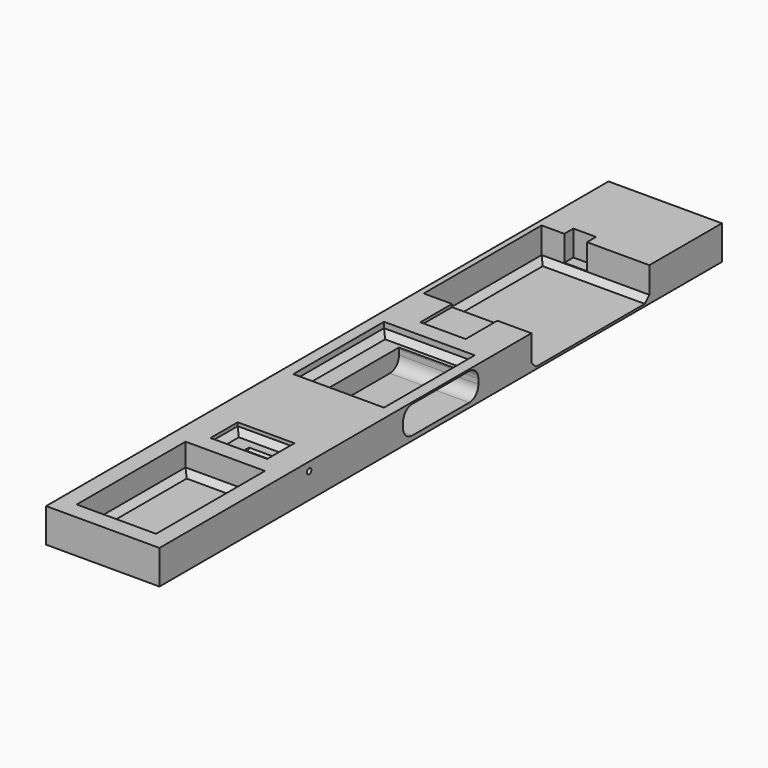
from build123d import *

# Parameters (mm, degrees)
BOX038_W          = 4
BOX038_H          = 4
BOX038_DEPTH      = 10
BOX037_W          = 3
BOX037_H          = 6
BOX037_DEPTH      = 10
BOX036_W          = 2
BOX036_H          = 2.5
BOX036_DEPTH      = 10
BOX027_W          = 8.65
BOX027_H          = 8.3
BOX027_DEPTH      = 2.45
FILLET016_R       = 1
BOX034_W          = 7
BOX034_H          = 12
BOX034_DEPTH      = 3
CHAMFER002_SIZE   = 0.5
BOX033_W          = 8
BOX033_H          = 10
BOX033_DEPTH      = 10
CHAMFER001_SIZE   = 0.5
BOX032_W          = 5
BOX032_H          = 3
BOX032_DEPTH      = 10
CHAMFER_SIZE      = 0.5
BOX024_W          = 8.65
BOX024_H          = 8.3
BOX024_DEPTH      = 2.45
FILLET015_R       = 1
CYLINDER028_R     = 0.25
CYLINDER028_DEPTH = 10
BOX026_W          = 10
BOX026_H          = 13
BOX026_DEPTH      = 3
BOX014_W          = 10
BOX014_H          = 62
BOX014_DEPTH      = 3
CHAMFER003_SIZE   = 0.5


with BuildPart() as cubo032:
    # Box038 → Box038 (new body)
    with BuildSketch(Plane(origin=(127.5, 40, 4.75), x_dir=(1, 0, 0), z_dir=(0, 0, 1))):
        with Locations((2, 2)):
            Rectangle(BOX038_W, BOX038_H)
    extrude(amount=BOX038_DEPTH)


with BuildPart() as cubo031:
    # Box037 → Box037 (new body)
    with BuildSketch(Plane(origin=(128, 41, 4.75), x_dir=(1, 0, 0), z_dir=(0, 0, 1))):
        with Locations((1.5, 3)):
            Rectangle(BOX037_W, BOX037_H)
    extrude(amount=BOX037_DEPTH)


with BuildPart() as cubo030:
    # Box036 → Box036 (new body)
    with BuildSketch(Plane(origin=(127, 55, 2.75), x_dir=(1, 0, 0), z_dir=(0, 0, 1))):
        with Locations((1, 1.25)):
            Rectangle(BOX036_W, BOX036_H)
    extrude(amount=BOX036_DEPTH)


with BuildPart() as usb_c002:
    # Box027 → Box027 (new body)
    with BuildSketch(Plane.XY):
        with Locations((4.325, 4.15)):
            Rectangle(BOX027_W, BOX027_H)
    extrude(amount=BOX027_DEPTH)

    # Fillet016
    fillet016_edges = [usb_c002.edges().sort_by_distance(p)[0] for p in [
        (4.325, 0, 0),
        (4.325, 0, 2.45),
        (4.325, 8.3, 0),
        (4.325, 8.3, 2.45),
    ]]
    fillet(fillet016_edges, radius=FILLET016_R)


with BuildPart() as usb_c002_1:
    # Fillet016 placement: moved
    add(usb_c002.part.moved(Location((127.5, 29.35, 2.4))))


with BuildPart() as chamfer002:
    # Box034 → Box034 (new body)
    with BuildSketch(Plane(origin=(126, 4, 2.5), x_dir=(1, 0, 0), z_dir=(0, 0, 1))):
        with Locations((3.5, 6)):
            Rectangle(BOX034_W, BOX034_H)
    extrude(amount=BOX034_DEPTH)

    # Chamfer002
    chamfer002_edges = [chamfer002.edges().sort_by_distance(p)[0] for p in [
        (126, 10, 2.5),
        (133, 10, 2.5),
        (129.5, 4, 2.5),
        (129.5, 16, 2.5),
    ]]
    chamfer(chamfer002_edges, length=CHAMFER002_SIZE)


with BuildPart() as chamfer001:
    # Box033 → Box033 (new body)
    with BuildSketch(Plane(origin=(124, 28.5, 0), x_dir=(1, 0, 0), z_dir=(0, 0, 1))):
        with Locations((4, 5)):
            Rectangle(BOX033_W, BOX033_H)
    extrude(amount=BOX033_DEPTH)

    # Chamfer001
    chamfer001_edges = [chamfer001.edges().sort_by_distance(p)[0] for p in [
        (124, 33.5, 0),
        (132, 33.5, 0),
        (128, 28.5, 0),
        (128, 38.5, 0),
    ]]
    chamfer(chamfer001_edges, length=CHAMFER001_SIZE)


with BuildPart() as chamfer001_1:
    # Chamfer001 placement: moved
    add(chamfer001.part.moved(Location((1.5, 0, 4))))


with BuildPart() as chamfer_body:
    # Box032 → Box032 (new body)
    with BuildSketch(Plane(origin=(124, 14, 0), x_dir=(1, 0, 0), z_dir=(0, 0, 1))):
        with Locations((2.5, 1.5)):
            Rectangle(BOX032_W, BOX032_H)
    extrude(amount=BOX032_DEPTH)

    # Chamfer
    chamfer_edges = [chamfer_body.edges().sort_by_distance(p)[0] for p in [
        (124, 15.5, 0),
        (129, 15.5, 0),
        (126.5, 14, 0),
        (126.5, 17, 0),
    ]]
    chamfer(chamfer_edges, length=CHAMFER_SIZE)


with BuildPart() as chamfer_body_1:
    # Chamfer placement: moved
    add(chamfer_body.part.moved(Location((3, 3.5, 4.2))))


with BuildPart() as usb_c001:
    # Box024 → Box024 (new body)
    with BuildSketch(Plane.XY):
        with Locations((4.325, 4.15)):
            Rectangle(BOX024_W, BOX024_H)
    extrude(amount=BOX024_DEPTH)

    # Fillet015
    fillet015_edges = [usb_c001.edges().sort_by_distance(p)[0] for p in [
        (4.325, 0, 0),
        (4.325, 0, 2.45),
        (4.325, 8.3, 0),
        (4.325, 8.3, 2.45),
    ]]
    fillet(fillet015_edges, radius=FILLET015_R)


with BuildPart() as usb_c001_1:
    # Fillet015 placement: moved
    add(usb_c001.part.moved(Location((130, 29.35, 2.4))))


with BuildPart() as cilindro026:
    # Cylinder028 → Cylinder028 (new body)
    with BuildSketch(Plane(origin=(129, 19, 4.25), x_dir=(0, 1, 0), z_dir=(1, 0, 0))):
        Circle(CYLINDER028_R)
    extrude(amount=CYLINDER028_DEPTH)


with BuildPart() as obj1:
    # Box026 → Box026 (new body)
    with BuildSketch(Plane(origin=(125, 43.5, 2.2), x_dir=(1, 0, 0), z_dir=(0, 0, 1))):
        with Locations((5, 6.5)):
            Rectangle(BOX026_W, BOX026_H)
    extrude(amount=BOX026_DEPTH)


with BuildPart() as cut044:
    # Box014 → Box014 (new body)
    with BuildSketch(Plane(origin=(124.5, 2.5, 2), x_dir=(1, 0, 0), z_dir=(0, 0, 1))):
        with Locations((5, 31)):
            Rectangle(BOX014_W, BOX014_H)
    extrude(amount=BOX014_DEPTH)

    # Cut030: cut obj1
    add(obj1.part, mode=Mode.SUBTRACT)

    # Cut032: cut Cilindro026
    add(cilindro026.part, mode=Mode.SUBTRACT)

    # Cut033: cut USB-C001
    add(usb_c001_1.part, mode=Mode.SUBTRACT)

    # Cut038: cut Chamfer body
    add(chamfer_body_1.part, mode=Mode.SUBTRACT)

    # Cut039: cut Chamfer001
    add(chamfer001_1.part, mode=Mode.SUBTRACT)

    # Cut040: cut Chamfer002
    add(chamfer002.part, mode=Mode.SUBTRACT)

    # Cut041: cut USB-C002
    add(usb_c002_1.part, mode=Mode.SUBTRACT)

    # Chamfer003
    chamfer003_edges = [cut044.edges().sort_by_distance(p)[0] for p in [
        (129.75, 56.5, 2.2),
        (125, 50, 2.2),
        (129.75, 43.5, 2.2),
    ]]
    chamfer(chamfer003_edges, length=CHAMFER003_SIZE)

    # Cut042: cut Cubo030
    add(cubo030.part, mode=Mode.SUBTRACT)

    # Cut043: cut Cubo031
    add(cubo031.part, mode=Mode.SUBTRACT)

    # Cut044: cut Cubo032
    add(cubo032.part, mode=Mode.SUBTRACT)


solid = cut044.part
